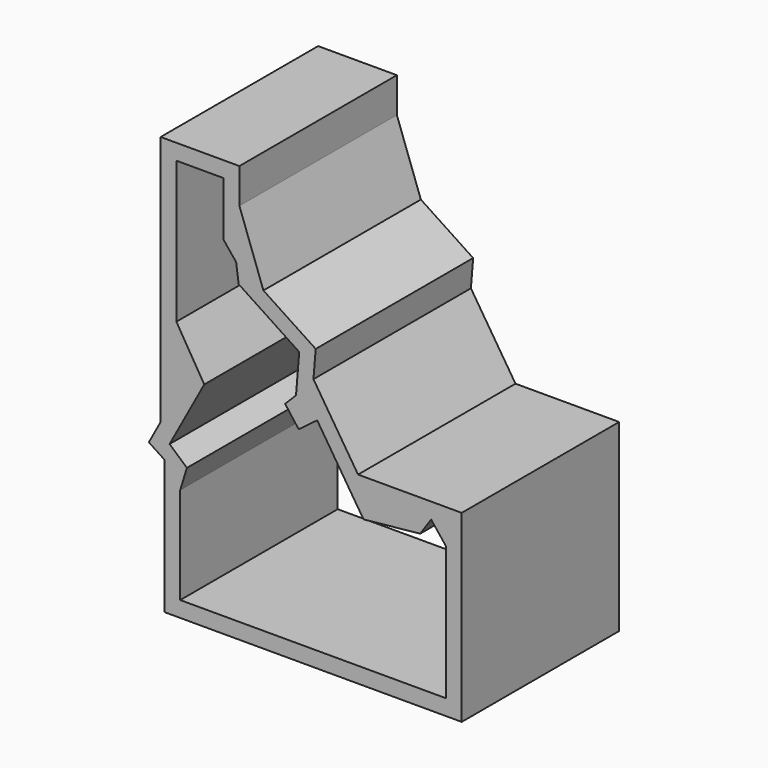
from build123d import *

# Parameters (mm, degrees)
F1_DEPTH = 50


with BuildPart() as f1:
    # F0 (on Front) → F1 (new body)
    with BuildSketch(Plane.XZ):
        Polygon((-54.376826, 94.42836), (-54.376826, 103.330544), (-74.380621, 103.330544), (-74.380621, 39.594981), (-77.379836, 34.080958), (-73.407053, 31.455231), (-73.407053, -2.616242), (2.095642, -2.616242), (2.095642, 44.139318), (-24.235287, 44.139318), (-35.565158, 61.786109), (-34.995204, 68.73957), (-48.275114, 77.498662), align=None)
        Polygon((-63.30613, 51.583886), (-70.380621, 63.319154), (-70.380621, 99.330544), (-58.376826, 99.330544), (-58.376826, 85.526176), (-55.210922, 81.59513), (-54.556411, 76.849923), (-39.175387, 66.704988), (-39.993525, 56.723688), (-42.759668, 53.943455), (-39.323483, 49.361873), (-34.610999, 52.896235), (-22.848731, 34.575965), (-8.449475, 36.048617), (-5.667799, 40.139318), (-1.904358, 35.394106), (-1.904358, 1.383758), (-69.407053, 1.383758), (-69.407053, 25.991378), (-67.709148, 31.495143), (-72.112158, 35.394106), align=None, mode=Mode.SUBTRACT)
    extrude(amount=F1_DEPTH)


solid = f1.part
